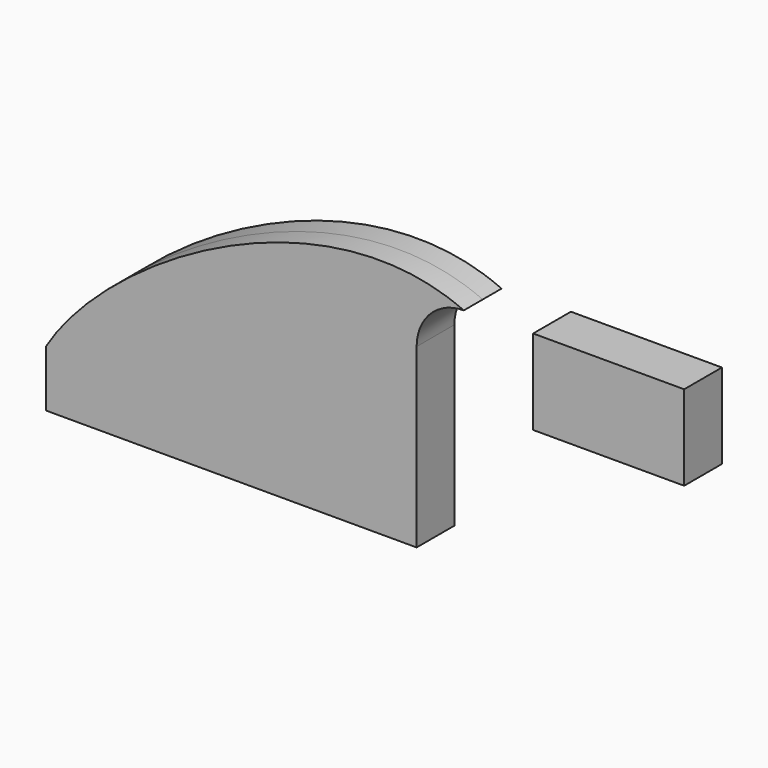
from build123d import *

# Parameters (mm, degrees)
F0_W     = 124.646754
F0_H     = 19.05
F1_DEPTH = 7.9375


with BuildPart() as f1:
    # F0 (on Front) → F1 (new body, symmetric)
    with BuildSketch(Plane.XZ):
        Rectangle(F0_W, F0_H)
        with BuildLine():
            add(Edge.make_bspline(
                [(-62.323377, 9.525), (-41.548915, 44.145729), (30.689549, 87.111093), (78.198377, 65.8405)],
                knots=[0, 0, 0, 0, 151.386256, 151.386256, 151.386256, 151.386256], degree=3))
            Line((-62.323377, 9.525), (62.323377, 9.525))
            Line((62.323377, 9.525), (62.323377, 49.9655))
            ThreePointArc((62.323377, 49.9655), (66.973056, 61.19082), (78.198377, 65.8405))
        make_face()
        Polygon((101.511575, 66.582822), (101.511575, 65.8405), (101.511575, 38.007822), (152.311575, 38.007822), (152.311575, 66.582822), align=None)
    extrude(amount=F1_DEPTH, both=True)


solid = f1.part
